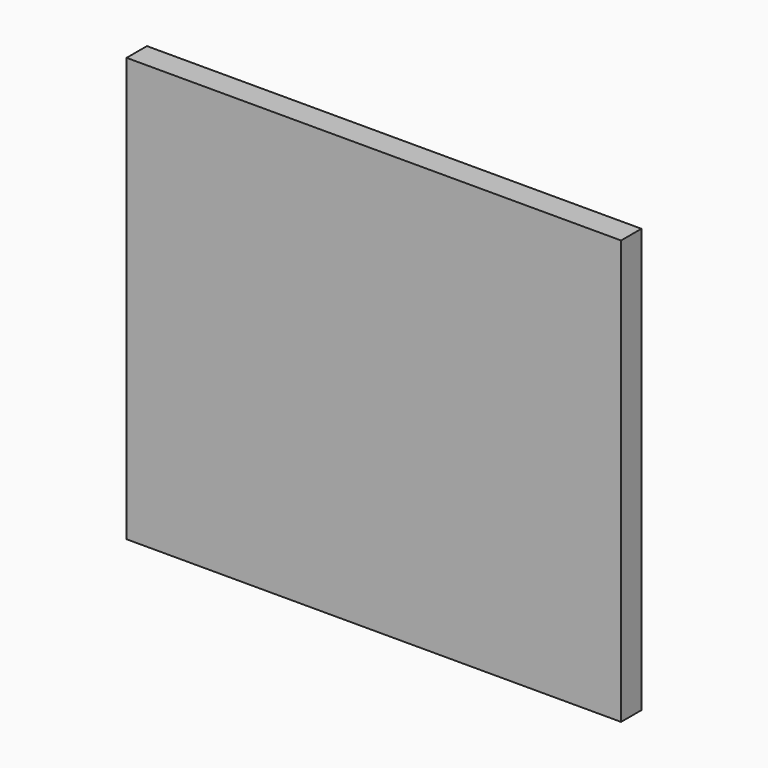
from build123d import *

# Parameters (mm, degrees)
BOX069_W                  = 35
BOX069_H                  = 1.8
BOX069_DEPTH              = 30
PAD002_DEPTH              = 3
BODY002_PLACEMENT_ANGLE   = 90
FUSION041_PLACEMENT_ANGLE = 180


with BuildPart() as logobase002:
    # Box069 → Box069 (new body)
    with BuildSketch(Plane(origin=(21.5, -44, 15.25), x_dir=(1, 0, 0), z_dir=(0, 0, 1))):
        with Locations((17.5, 0.9)):
            Rectangle(BOX069_W, BOX069_H)
    extrude(amount=BOX069_DEPTH)


with BuildPart() as logo005:
    # Sketch002 → Pad002 (new body)
    with BuildSketch(Plane.XY):
        Polygon((-15.066747, -2.987899), (-14.417461, -3.201938), (-14.138643, -3.358095), (-13.867326, -3.550643), (-13.410691, -3.571363), (-13.132099, -3.616994), (-12.816981, -3.623429), (-12.466181, -3.85302), (-11.870388, -3.85302), (-11.520385, -4.008358), (-11.138921, -4.05555), (-10.80982, -4.007881), (-10.571555, -4.299093), (-10.133842, -4.331365), (-9.89036, -4.3898), (-9.995555, -4.876968), (-10.089424, -5.363912), (-10.107024, -5.504714), (-9.778484, -5.639651), (-9.516561, -5.730218), (-9.249311, -5.762288), (-8.928614, -5.901257), (-8.543776, -5.863842), (-7.717882, -5.75845), (-7.372913, -5.972569), (-6.724874, -5.720376), (-6.270657, -5.694814), (-6.062229, -5.804927), (-5.350893, -5.48914), (-5.024015, -5.48914), (-4.801264, -5.531317), (-4.197354, -5.162479), (-3.751908, -4.972515), (-3.377141, -4.972515), (-2.818976, -4.454219), (-2.627606, -4.342587), (-2.151123, -4.357646), (-2.380419, -4.518009), (-3.185771, -5.42702), (-3.613178, -6.058241), (-3.711104, -6.645795), (-3.835143, -7.155008), (-3.758777, -7.508761), (-3.705962, -7.68135), (-3.53967, -7.852018), (-3.468499, -8.65617), (-3.272681, -8.566711), (-3.168228, -8.769092), (-3.070875, -9.320832), (-2.842071, -9.3355), (-2.45193, -10.098182), (-2.249525, -10.130449), (-0.96042, -11.875302), (-0.153326, -11.388908), (0.461347, -10.768889), (0.669802, -10.72613), (1.317242, -9.709977), (1.518256, -9.650808), (1.740221, -9.089367), (2.020942, -9.043669), (2.393061, -7.803274), (2.588394, -7.698711), (2.654196, -7.039452), (2.869633, -6.817487), (3.091598, -6.928469), (3.796664, -7.57478), (3.933761, -7.502968), (4.462561, -7.973012), (4.684525, -7.920785), (5.115399, -8.34513), (5.324308, -8.286375), (6.23668, -8.795643), (6.503619, -8.766309), (7.148016, -9.05537), (8.048827, -9.186133), (8.36847, -7.936621), (8.499233, -7.791329), (8.434769, -6.722055), (8.586207, -6.479883), (8.322964, -5.531781), (8.439835, -5.190909), (8.074257, -4.393068), (8.042361, -4.177775), (8.090203, -3.994378), (8.410305, -4.111031), (8.720134, -4.050195), (9.318169, -4.050195), (9.829643, -4.158874), (10.132648, -3.967503), (10.517489, -3.962302), (10.88308, -3.975359), (11.224485, -4.094309), (11.686072, -3.910075), (12.103889, -3.883962), (12.600047, -3.962302), (13.579306, -3.877433), (14.388827, -3.746865), (14.754416, -3.681581), (15.276689, -3.753394), (15.04319, -3.241373), (14.520919, -2.516721), (14.037817, -1.994449), (13.280153, -1.546255), (13.043842, -1.231174), (12.107354, -0.797939), (11.380431, -0.250878), (10.439567, 0.304889), (9.595256, 0.727998), (8.536237, 0.97306), (7.198999, 0.97306), (5.779317, 0.795578), (5.601857, 0.795578), (5.831776, 0.981815), (6.254031, 1.158201), (6.302136, 1.382691), (7.179873, 1.706855), (7.446816, 1.794377), (7.490577, 2.126962), (8.300576, 2.668386), (8.685751, 2.818538), (8.685751, 3.125373), (8.89508, 3.18684), (9.634921, 4.066021), (9.626381, 4.327431), (10.206841, 5.183136), (9.255181, 5.644445), (9.110202, 5.875968), (8.321324, 5.973361), (8.154661, 6.066253), (7.828613, 6.044872), (7.634715, 6.130877), (7.563913, 6.332674), (6.748318, 6.354958), (6.468188, 6.295259), (6.270422, 6.610614), (5.404532, 6.332674), (5.270907, 6.471644), (4.569418, 6.247245), (4.441608, 6.406517), (3.419502, 5.945882), (3.291921, 6.153201), (2.15964, 5.491375), (2.000163, 5.698694), (1.618501, 5.348278), (1.459844, 5.949736), (1.381651, 6.286506), (1.14534, 6.299634), (0.824344, 6.914785), (0.348522, 7.295443), (0.126706, 7.681261), (-0.415308, 8.181635), (-0.872658, 8.623701), (-1.120738, 8.643287), (-1.793164, 9.119861), (-2.314879, 9.121219), (-2.713213, 9.138457), (-2.884254, 9.341568), (-3.167788, 9.264536), (-3.707386, 9.827964), (-4.049155, 9.7003), (-4.429878, 10.011006), (-4.979099, 10.142511), (-5.430383, 10.448871), (-5.989475, 10.365602), (-7.326053, 10.410839), (-7.252544, 9.132535), (-7.368778, 8.769302), (-7.261404, 7.837619), (-7.411118, 7.604196), (-7.092165, 6.743021), (-7.100138, 6.559623), (-7.29151, 6.384199), (-6.741315, 5.299757), (-6.87495, 5.027319), (-6.315858, 4.420645), (-6.303963, 4.194629), (-6.054155, 4.0043), (-6.185007, 3.956717), (-5.542647, 3.076445), (-5.578333, 2.909907), (-5.126302, 2.410293), (-5.185779, 2.267546), (-4.733747, 1.898783), (-4.424462, 1.589498), (-5.31663, 1.292109), (-5.840036, 1.089884), (-6.04226, 0.792495), (-6.946324, 0.994719), (-7.196131, 0.887659), (-7.814701, 1.042302), (-8.02502, 0.969153), (-8.602671, 1.030419), (-8.834605, 0.872878), (-9.333486, 0.929767), (-9.661695, 0.649695), (-10.324935, 0.649695), (-11.010686, 0.32425), (-11.728333, 0.053139), (-12.297134, -0.13161), (-12.421175, -0.347049), (-13.295985, -0.817096), (-13.922715, -1.241445), (-14.170795, -1.59398), (-14.53862, -2.09216), (-14.783051, -2.457701), align=None)
    extrude(amount=PAD002_DEPTH)


with BuildPart() as logo005_1:
    # Body002 placement: moved
    add(logo005.part.moved(Location((39.35, -43, 30))).rotate(Axis((39.35, -43, 30), (1, 0, 0)), BODY002_PLACEMENT_ANGLE))

    # Fusion041: union logoBase002
    add(logobase002.part)


with BuildPart() as logo005_2:
    # Fusion041 placement: moved
    add(logo005_1.part.moved(Location((-69, -26, 58))).rotate(Axis((-69, -26, 58), (1, 0, 0)), FUSION041_PLACEMENT_ANGLE))


solid = logo005_2.part
